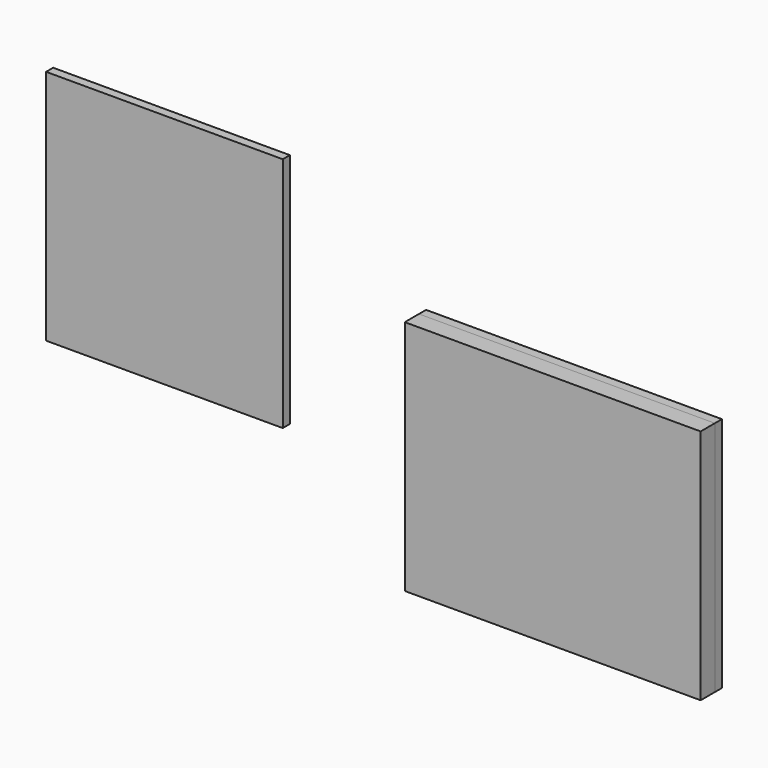
from build123d import *

# Parameters (mm, degrees)
F0_W      = 80
F0_H      = 80
F0_W_2    = 100
F1_DEPTH  = 3
F1_FACE_W = 100
F1_FACE_H = 80
F2_DEPTH  = 6


with BuildPart() as f1:
    # F0 (on Front) → F1 (new body)
    with BuildSketch(Plane.XZ):
        with Locations((-76.274319, 47.705934)):
            Rectangle(F0_W, F0_H)
        with Locations((59.76117, 16.640848)):
            Rectangle(F0_W_2, F0_H)
    extrude(amount=F1_DEPTH)


with BuildPart() as f2:
    # F1_face (on face) → F2 (new body)
    with BuildSketch(Plane(origin=(59.76117, -3, 16.640848), x_dir=(1, 0, 0), z_dir=(0, -1, 0))):
        Rectangle(F1_FACE_W, F1_FACE_H)
    extrude(amount=F2_DEPTH)


solid = Compound([f1.part, f2.part])
